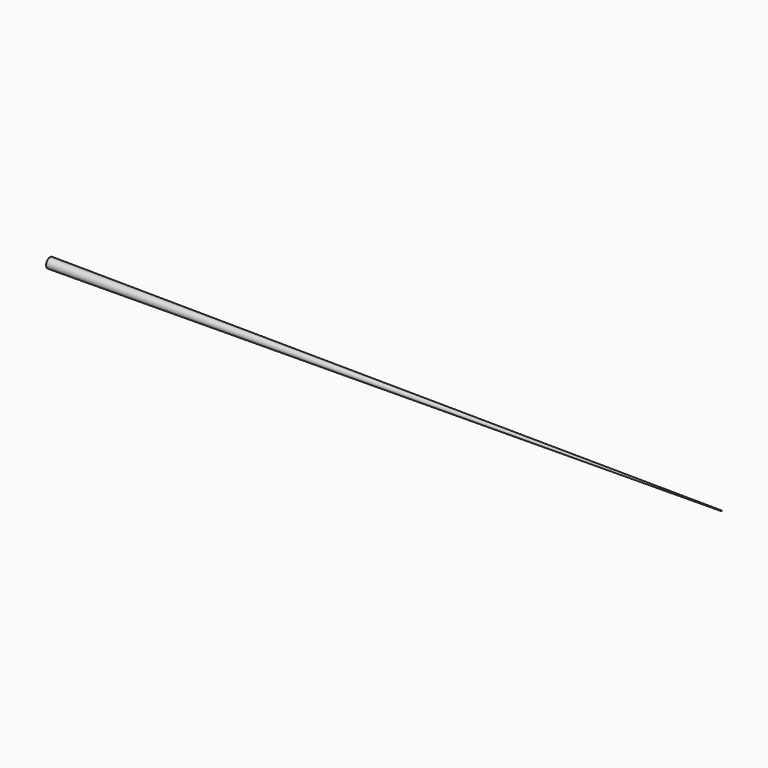
from build123d import *

# Parameters (mm, degrees)
F0_R = 1.499756
F2_R = 0.091398


with BuildPart() as f3:
    # F0 (on Right) → F3 section 0
    with BuildSketch(Plane.YZ):
        Circle(F0_R)
    # F2 (on offset) → F3 section 1
    with BuildSketch(Plane.YZ.offset(203.2)):
        Circle(F2_R)
    loft()


solid = f3.part
